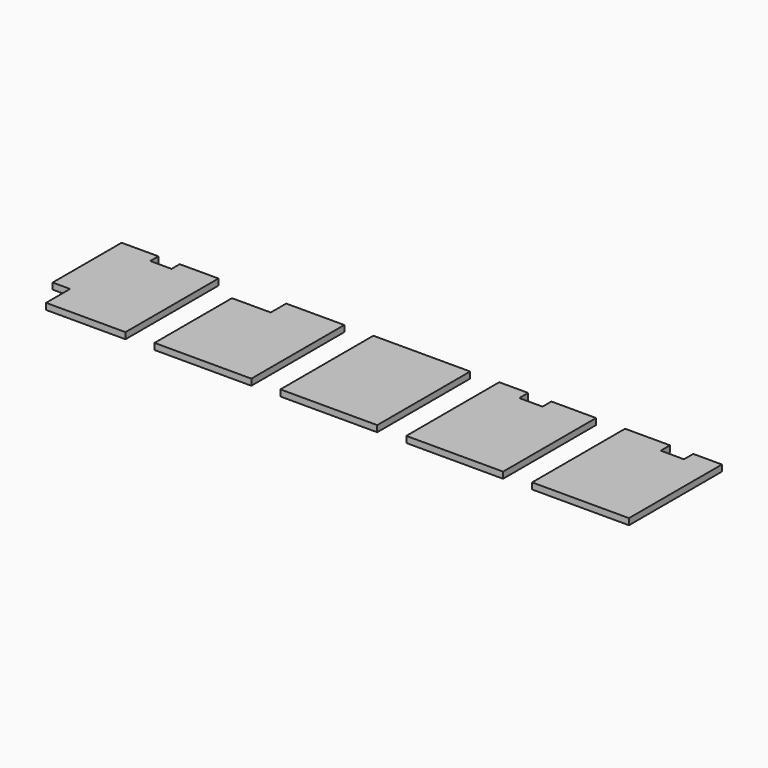
from build123d import *

# Parameters (mm, degrees)
F0_W     = 1000
F0_H     = 1200
F1_DEPTH = 65


with BuildPart() as f1:
    # F0 (on Top) → F1 (new body)
    with BuildSketch(Plane.XY):
        Polygon((-183.414953, 568.515581), (-563.414953, 568.515581), (-563.414953, -321.484419), (-383.414953, -321.484419), (-383.414953, -631.484419), (436.585047, -631.484419), (436.585047, 568.515581), (36.585047, 568.515581), (36.585047, 463.515581), (-183.414953, 463.515581), align=None)
        Polygon((1736.585047, 568.515581), (1136.585047, 568.515581), (1136.585047, 368.515581), (736.585047, 368.515581), (736.585047, -631.484419), (1736.585047, -631.484419), align=None)
        with Locations((2536.585047, -31.484419)):
            Rectangle(F0_W, F0_H)
        Polygon((3635.585047, 568.515581), (3336.585047, 568.515581), (3336.585047, -631.484419), (4336.585047, -631.484419), (4336.585047, 568.515581), (3875.585047, 568.515581), (3875.585047, 453.515581), (3635.585047, 453.515581), align=None)
        Polygon((5100.585047, 568.515581), (4636.585047, 568.515581), (4636.585047, -631.484419), (5636.585047, -631.484419), (5636.585047, 568.515581), (5340.585047, 568.515581), (5340.585047, 448.515581), (5100.585047, 448.515581), align=None)
    extrude(amount=F1_DEPTH)


solid = f1.part
